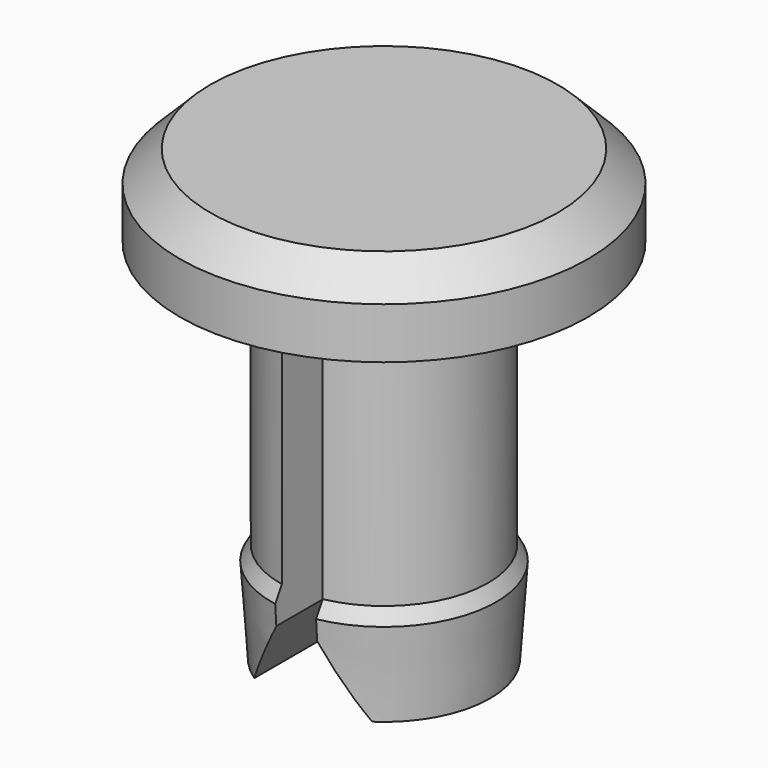
from build123d import *

# Parameters (mm, degrees)
SKETCH002_W  = 2
SKETCH002_H  = 25
PAD001_DEPTH = 15
PAD_DEPTH    = 7.5


with BuildPart() as pad001:
    # Sketch002 → Pad001 (new body, symmetric)
    with BuildSketch(Plane.XZ):
        with Locations((0, -13.5)):
            Rectangle(SKETCH002_W, SKETCH002_H)
    extrude(amount=PAD001_DEPTH, both=True)


with BuildPart() as pad:
    # Sketch001 → Pad (new body, symmetric)
    with BuildSketch(Plane.XZ):
        Polygon((8, -26.856406), (0, -13), (-8, -26.856406), align=None)
    extrude(amount=PAD_DEPTH, both=True)


with BuildPart() as cut001:
    # Sketch → Revolution (revolve)
    with BuildSketch(Plane.XZ):
        Polygon((0, 4), (8.5, 4), (10, 2.5), (10, 0), (5.1, 0), (5.1, -13.058023), (5.5, -13.750843), (5.20287, -18), (0, -18), align=None)
    revolve(axis=Axis((0, 0, 0), (0, 0, 1)))

    # Cut: cut Pad
    add(pad.part, mode=Mode.SUBTRACT)

    # Cut001: cut Pad001
    add(pad001.part, mode=Mode.SUBTRACT)


solid = cut001.part
